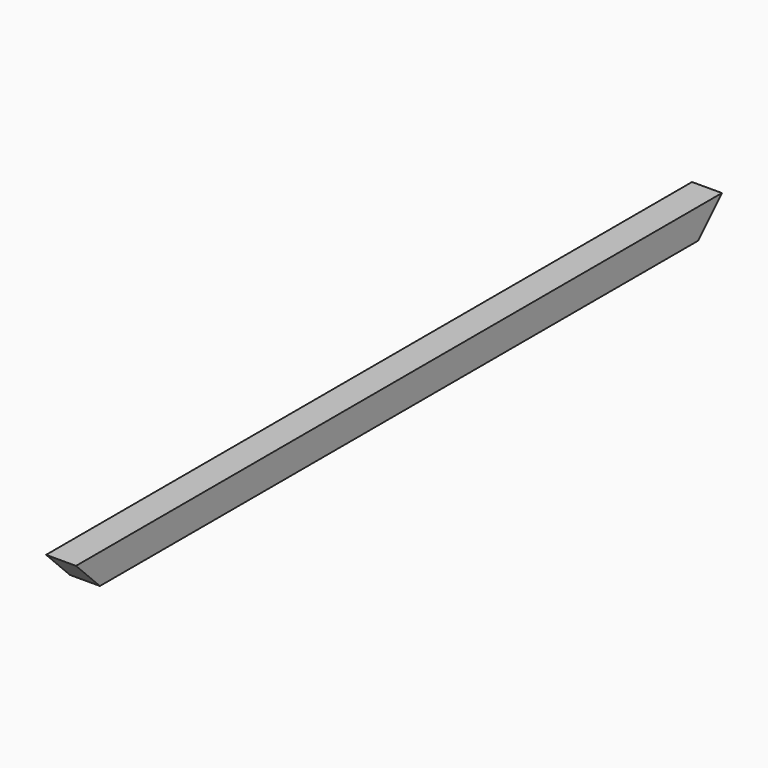
from build123d import *

# Parameters (mm, degrees)
F0_W     = 25.4
F0_H     = 25.4
F1_DEPTH = 685.8
F3_DEPTH = 25.401


with BuildPart() as f1:
    # F0 (on Front) → F1 (new body)
    with BuildSketch(Plane.XZ):
        Rectangle(F0_W, F0_H)
    extrude(amount=F1_DEPTH)

    # F2 (on face) → F3 (cut, through all)
    with BuildSketch(Plane.YZ.offset(12.7)):
        Polygon((-660.4, -12.7), (-685.8, 12.7), (-685.8, -12.7), align=None)
        Polygon((0, -12.7), (0, 12.7), (-25.4, -12.7), align=None)
    extrude(amount=-F3_DEPTH, mode=Mode.SUBTRACT)


solid = f1.part
